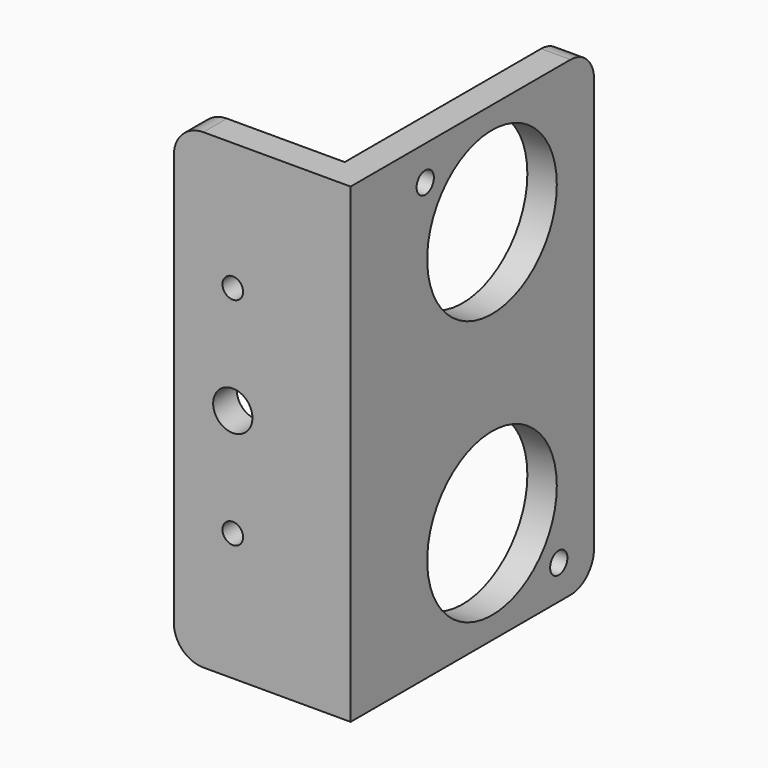
from build123d import *

# Parameters (mm, degrees)
PAD_DEPTH       = 24
FILLET_R        = 3
SKETCH001_R     = 8.25
SKETCH001_R_2   = 1.1
POCKET_DEPTH    = 5
SKETCH002_R     = 1.05
SKETCH002_R_2   = 2
POCKET001_DEPTH = 5


with BuildPart() as part:
    # Sketch → Pad (new body, symmetric)
    with BuildSketch(Plane.XY):
        Polygon((-3, 31), (0, 31), (0, 0), (-18, 0), (-18, 3), (-3, 3), align=None)
    extrude(amount=PAD_DEPTH, both=True)

    # Fillet
    fillet_edges = [part.edges().sort_by_distance(p)[0] for p in [
        (-1.5, 31, 24),
        (-1.5, 31, -24),
        (-18, 1.5, -24),
        (-18, 1.5, 24),
    ]]
    fillet(fillet_edges, radius=FILLET_R)

    # Sketch001 (on Face5 of Fillet) → Pocket (cut)
    with BuildSketch(Plane.YZ):
        with Locations((18, 13.5)):
            Circle(SKETCH001_R)
        with Locations((18, -13.5)):
            Circle(SKETCH001_R)
        with Locations((9.5, 20.5)):
            Circle(SKETCH001_R_2)
        with Locations((26.5, -20.5)):
            Circle(SKETCH001_R_2)
    extrude(amount=-POCKET_DEPTH, mode=Mode.SUBTRACT)

    # Sketch002 (on Face8 of Pocket) → Pocket001 (cut)
    with BuildSketch(Plane(origin=(0, 3, 0), x_dir=(-1, 0, 0), z_dir=(0, 1, 0))):
        with Locations((12, 11)):
            Circle(SKETCH002_R)
        with Locations((12, -11)):
            Circle(SKETCH002_R)
        with Locations((12, 0)):
            Circle(SKETCH002_R_2)
    extrude(amount=-POCKET001_DEPTH, mode=Mode.SUBTRACT)


solid = part.part
